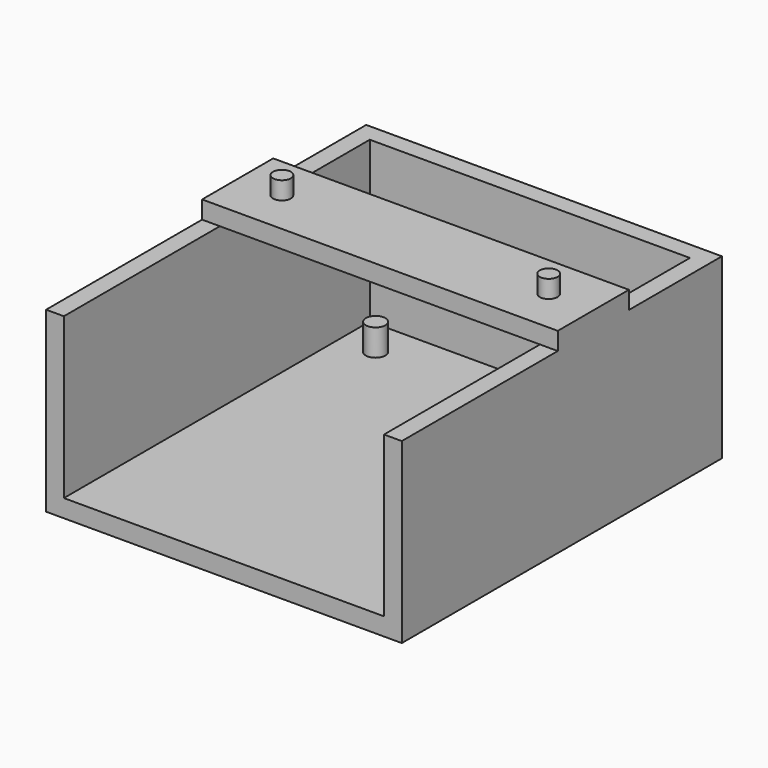
from build123d import *

# Parameters (mm, degrees)
SKETCH_W     = 40
SKETCH_H     = 45
PAD_DEPTH    = 20
SKETCH001_W  = 36
SKETCH001_H  = 46.656231
POCKET_DEPTH = 18
SKETCH002_R  = 1.1
PAD001_DEPTH = 3
SKETCH003_W  = 40
SKETCH003_H  = 10
PAD002_DEPTH = 2
SKETCH004_R  = 1
PAD003_DEPTH = 2


with BuildPart() as part:
    # Sketch → Pad (new body)
    with BuildSketch(Plane.XY):
        with Locations((-8.49515, 10.714768)):
            Rectangle(SKETCH_W, SKETCH_H)
    extrude(amount=PAD_DEPTH)

    # Sketch001 → Pocket (cut)
    with BuildSketch(Plane.XY.offset(20)):
        with Locations((-8.49515, 7.886653)):
            Rectangle(SKETCH001_W, SKETCH001_H)
    extrude(amount=-POCKET_DEPTH, mode=Mode.SUBTRACT)

    # Sketch002 → Pad001 (new body)
    with BuildSketch(Plane.XY.offset(2)):
        with Locations((-22.475006, 27.009532)):
            Circle(SKETCH002_R)
        with Locations((5.464994, -4.740468)):
            Circle(SKETCH002_R)
    extrude(amount=PAD001_DEPTH)

    # Sketch003 → Pad002 (new body)
    with BuildSketch(Plane.XY.offset(20)):
        with Locations((-8.49515, 15.142302)):
            Rectangle(SKETCH003_W, SKETCH003_H)
    extrude(amount=PAD002_DEPTH)

    # Sketch004 → Pad003 (new body)
    with BuildSketch(Plane.XY.offset(22)):
        with Locations((-23.518098, 15.142302)):
            Circle(SKETCH004_R)
        with Locations((6.481902, 15.142302)):
            Circle(SKETCH004_R)
    extrude(amount=PAD003_DEPTH)


solid = part.part
